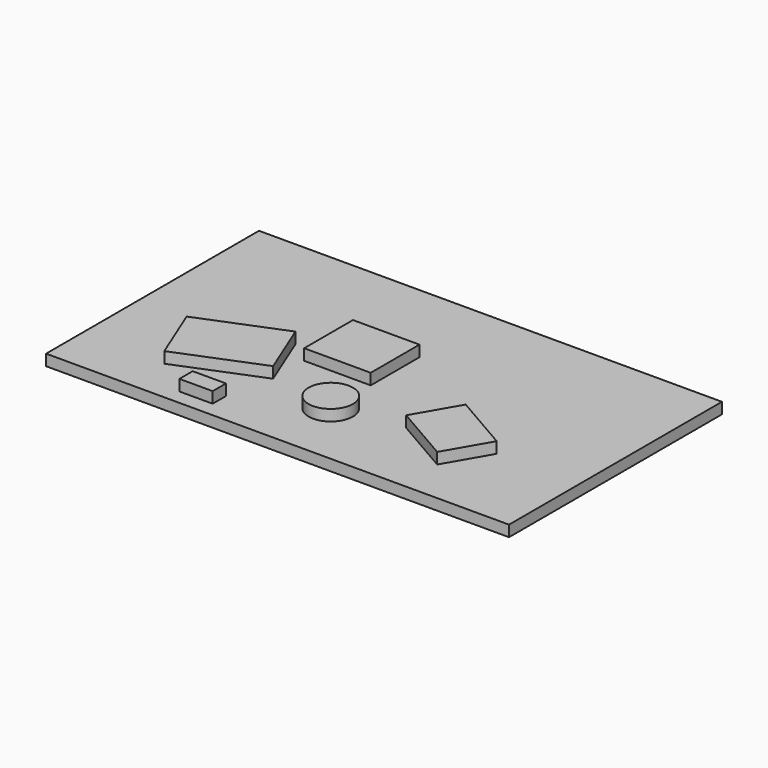
from build123d import *

# Parameters (mm, degrees)
F0_W     = 1060.45
F0_H     = 609.6
F1_DEPTH = 25.4
F2_R     = 50.8
F2_W     = 152.4
F2_H     = 139.7
F2_W_2   = 76.2
F2_H_2   = 38.1
F3_DEPTH = 25.4


with BuildPart() as f1:
    # F0 (on Top) → F1 (new body)
    with BuildSketch(Plane.XY):
        with Locations((530.708775, 304.379664)):
            Rectangle(F0_W, F0_H)
    extrude(amount=-F1_DEPTH)

    # F2 (on face) → F3 (join)
    with BuildSketch(Plane.XY):
        Polygon((378.308775, 177.379664), (325.921275, 306.88503), (137.549833, 230.68503), (189.937333, 101.179664), align=None)
        Polygon((815.091046, 101.179664), (872.241046, 200.166368), (740.258775, 276.366368), (683.108775, 177.379664), align=None)
        with Locations((530.708775, 151.979664)):
            Circle(F2_R)
        with Locations((454.508775, 336.129664)):
            Rectangle(F2_W, F2_H)
        with Locations((316.285934, 53.198037)):
            Rectangle(F2_W_2, F2_H_2)
    extrude(amount=F3_DEPTH)


solid = f1.part
